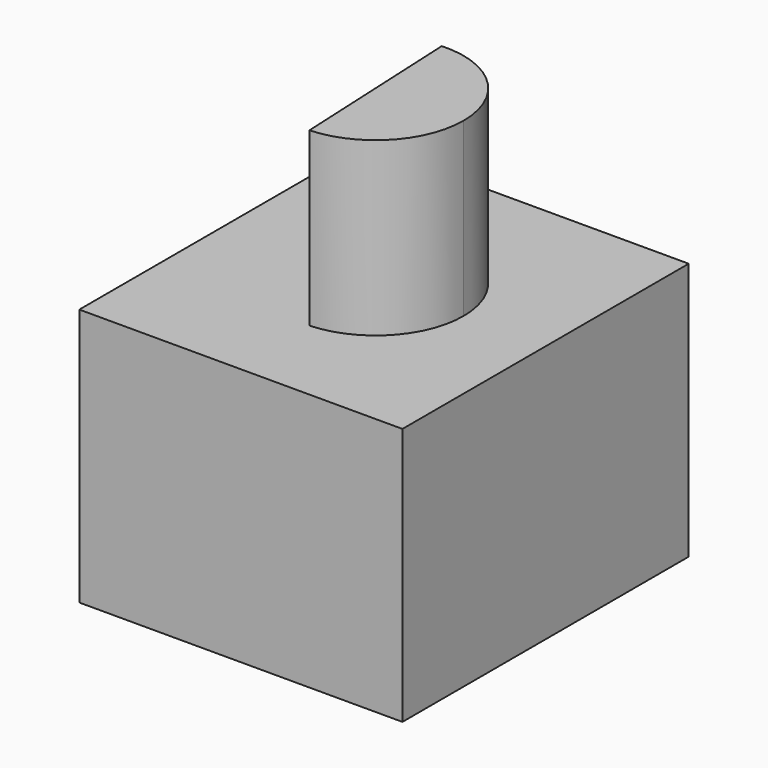
from build123d import *

# Parameters (mm, degrees)
F0_W     = 95.4542681575
F0_H     = 105.7056803256
F1_DEPTH = 76.2
F3_DEPTH = 50.8


with BuildPart() as f1:
    # F0 (on Top) → F1 (new body)
    with BuildSketch(Plane.XY):
        with Locations((-27.8532616794, -21.8633851036)):
            Rectangle(F0_W, F0_H)
    extrude(amount=F1_DEPTH)

    # F2 (on face) → F3 (join)
    with BuildSketch(Plane.XY.offset(76.2)):
        with BuildLine():
            ThreePointArc((-4.3483452884, -21.8633851036), (-12.3983179162, -3.0573822541), (-31.5619042296, 4.0997653688))
            Line((-31.5619042296, 4.0997653688), (-29.1185410541, -47.8265355761))
            ThreePointArc((-29.1185410541, -47.8265355761), (-11.5342197923, -39.8052898292), (-4.3483452884, -21.8633851036))
        make_face()
    extrude(amount=F3_DEPTH)


solid = f1.part
